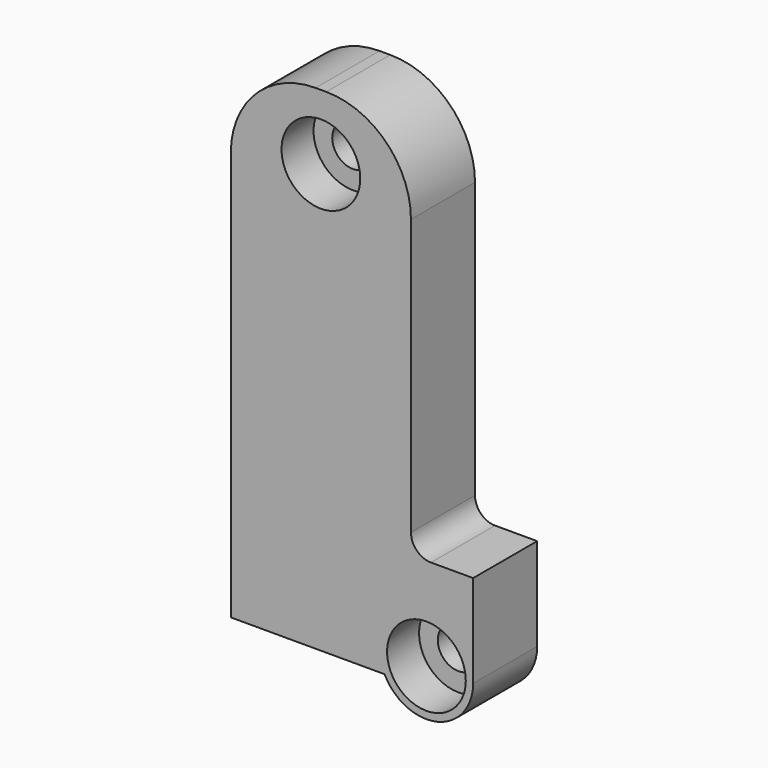
from build123d import *

# Parameters (mm, degrees)
F1_DEPTH       = 6
F2_D           = 3.1
F2_CBORE_D     = 5.9
F2_CBORE_DEPTH = 3
F3_D           = 3.1
F3_CBORE_D     = 5.9
F3_CBORE_DEPTH = 3
F5_D           = 3
F5_DEPTH       = 12
F5_TIP         = 0.9012909285


with BuildPart() as f1:
    # F0 (on Front) → F1 (new body)
    with BuildSketch(Plane.XZ):
        with BuildLine():
            ThreePointArc((6.35, 37), (1.8598719395, 35.1401280605), (0, 30.65))
            Line((0, 30.65), (0, 0))
            Line((0, 0), (11.5219274306, 0))
            ThreePointArc((11.5219274306, 0), (15.4558473407, -1.8583173487), (18.1600000875, 1.55))
            Line((18.1600000875, 1.55), (18.1600000875, 8.5))
            Line((18.1600000875, 8.5), (15, 8.5))
            ThreePointArc((15, 8.5), (13.9393398282, 8.9393398282), (13.5, 10))
            Line((13.5, 10), (13.5, 30.65))
            ThreePointArc((13.5, 30.65), (11.6401280605, 35.1401280605), (7.15, 37))
            Line((7.15, 37), (6.35, 37))
        make_face()
    extrude(amount=-F1_DEPTH)

    # F2 (through all)
    with Locations(Plane.XZ):
        with Locations((6.7500000875, 32.11)):
            CounterBoreHole(F2_D / 2, F2_CBORE_D / 2, F2_CBORE_DEPTH)

    # F3 (through all)
    with Locations(Plane.XZ):
        with Locations((14.6600000875, 1.55)):
            CounterBoreHole(F3_D / 2, F3_CBORE_D / 2, F3_CBORE_DEPTH)

    # F5
    with Locations(Plane(origin=(0, 0, 0), x_dir=(0, -1, 0), z_dir=(-1, 0, 0))):
        with Locations((-3, 18)):
            Hole(F5_D / 2, depth=F5_DEPTH)
            with Locations((0, 0, -(F5_DEPTH + F5_TIP / 2))):  # 118° drill point
                Cone(0, F5_D / 2, F5_TIP, mode=Mode.SUBTRACT)


solid = f1.part
